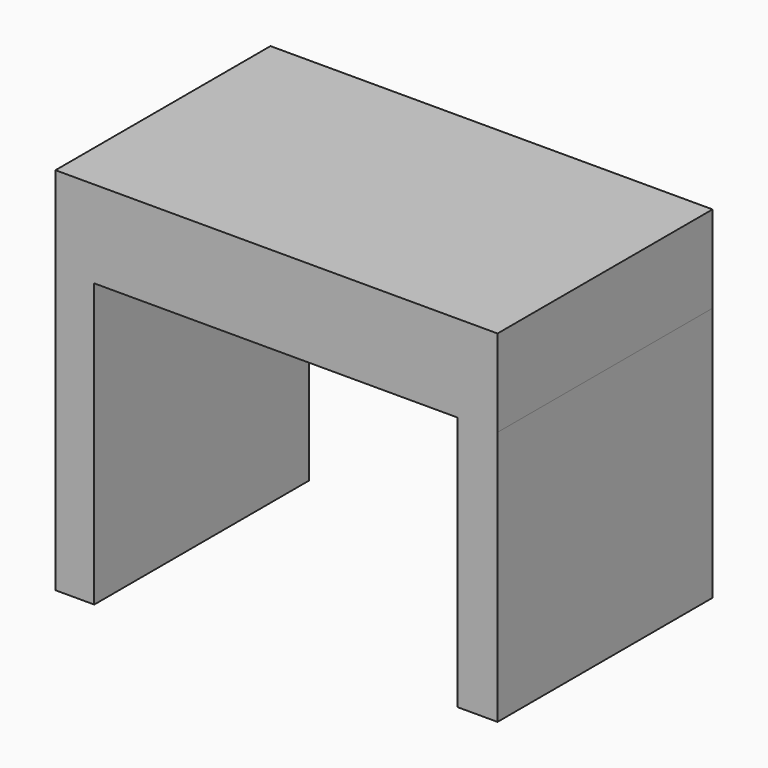
from build123d import *

# Parameters (mm, degrees)
F0_W     = 129.042469
F0_H     = 78.451965
F1_DEPTH = 25.4
F2_W     = 11.317857
F2_H     = 78.451965
F3_DEPTH = 82.55
F4_W     = 11.747062
F4_H     = 78.451965
F5_DEPTH = 74.422


with BuildPart() as f1:
    # F0 (on Top) → F1 (new body)
    with BuildSketch(Plane.XY):
        with Locations((-3.299382, 5.224021)):
            Rectangle(F0_W, F0_H)
    extrude(amount=F1_DEPTH)

    # F2 (on face) → F3 (join)
    with BuildSketch(Plane(origin=(0, 0, 0), x_dir=(1, 0, 0), z_dir=(0, 0, -1))):
        with Locations((-62.161687, -5.224021)):
            Rectangle(F2_W, F2_H)
    extrude(amount=F3_DEPTH)

    # F4 (on face) → F5 (join)
    with BuildSketch(Plane(origin=(0, 0, 0), x_dir=(1, 0, 0), z_dir=(0, 0, -1))):
        with Locations((55.348322, -5.224021)):
            Rectangle(F4_W, F4_H)
    extrude(amount=F5_DEPTH)


solid = f1.part
